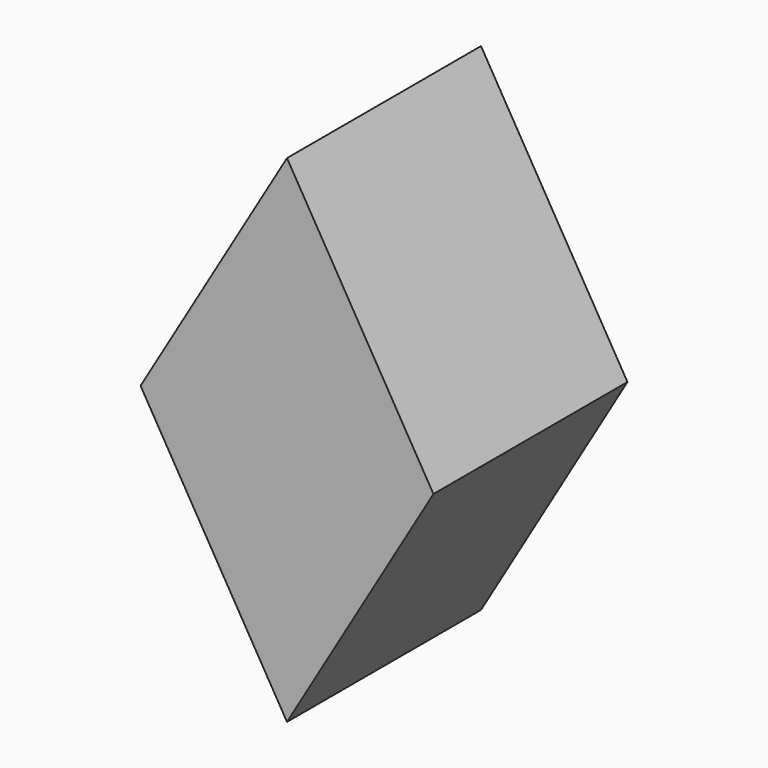
from build123d import *

# Parameters (mm, degrees)
F1_DEPTH = 5.08
F2_DEPTH = 5.08
F3_W     = 124.8834840953
F3_H     = 134.0803280473
F4_DEPTH = 25.4
F5_DEPTH = 1.27
F6_DEPTH = 1.27


with BuildPart() as f1:
    # F0 (on Front) → F1 (new body)
    with BuildSketch(Plane.XZ):
        with BuildLine():
            add(Edge.make_bspline(
                [(11.6870266183, 8.3659507286), (11.9476031572, 8.1243832132), (12.5616108346, 7.4348870399), (13.3502602627, 5.9055860485), (12.8304196463, 2.6136928469), (12.1032885822, -3.9726756525), (11.7671016032, -8.6546761386), (11.3077259518, -11.7183290107), (11.0820746049, -13.2232354954)],
                knots=[0.7644347581, 0.7644347581, 0.7644347581, 0.7644347581, 0.7813803339, 0.8102561854, 0.8494051355, 0.9057589485, 0.9537075591, 1, 1, 1, 1], degree=3))
            Line((11.6870266183, 8.3659507286), (10.7098612934, -7.1798651479))
            Line((10.7098612934, -7.1798651479), (-10.6029463932, 18.994666636))
            Line((-10.6029463932, 18.994666636), (-7.8187826003, 81.9431145827))
            add(Edge.make_bspline(
                [(-10.6029463932, 84.9773436785), (-9.8645957866, 84.411917966), (-8.8470388386, 83.6326772405), (-8.0272766718, 82.3316307612), (-7.8187826003, 81.9431145827)],
                knots=[0, 0, 0, 0, 0.0369842854, 0.0509698458, 0.0509698458, 0.0509698458, 0.0509698458], degree=3))
            add(Edge.make_bspline(
                [(-11.1952358857, -13.2855195552), (-11.1963398761, -12.8902117283), (-11.1997561984, -11.6669231231), (-11.1512885463, -5.3731858959), (-11.3422819981, 1.4393792063), (-12.1461643066, 4.6189611976), (-13.2850553088, 9.1238655935), (-15.2318124981, 13.6348809881), (-16.5294824008, 17.2010053959), (-19.3261405399, 23.6368379744), (-19.7379489625, 26.452730971), (-18.8574929103, 31.5305578619), (-16.6797816611, 35.2468825016), (-14.5909185063, 40.6408371255), (-13.4119591393, 46.1621954132), (-12.5394588361, 53.3896491248), (-12.0546254183, 59.9791874234), (-12.4642284532, 65.9827168693), (-12.3457592591, 73.9226808987), (-11.3164428193, 80.5227149139), (-11.5649092387, 84.7450814286), (-10.8268692537, 84.9232783602), (-10.6029463932, 84.9773436785)],
                knots=[0, 0, 0, 0, 0.0273896804, 0.0847579572, 0.1451631407, 0.1862204743, 0.2349457062, 0.2850522094, 0.3309978555, 0.390291, 0.4296935499, 0.4796750401, 0.527816225, 0.5818528524, 0.6365092781, 0.6980539867, 0.7565756752, 0.8124783975, 0.8767822708, 0.9378286387, 0.9811370802, 1, 1, 1, 1], degree=3))
            Line((-11.1952358857, -13.2855195552), (10.8409429303, -13.2855195552))
            add(Edge.make_bspline(
                [(10.8409429303, -13.2855195552), (10.9216527758, -13.2575733481), (11.0020770139, -13.2366740148), (11.0820746049, -13.2232354954)],
                knots=[0.9988692567, 0.9988692567, 0.9988692567, 0.9988692567, 1, 1, 1, 1], degree=3))
        make_face()
        with BuildLine():
            Line((10.7098612934, -7.1798651479), (11.6870266183, 8.3659507286))
            add(Edge.make_bspline(
                [(-7.8187826003, 81.9431145827), (-7.3326835412, 81.037298185), (-6.246332701, 78.0877738667), (-5.7619281696, 71.7972152113), (-5.7903461619, 61.0472196354), (-5.6098025476, 47.5528084715), (-5.6232359348, 35.7951775922), (-6.6035814728, 31.5572406566), (-6.642373723, 26.8588973108), (-4.7217209893, 21.7576733197), (-2.3324429206, 17.8568763905), (-0.0644904347, 14.9988475653), (2.1698029367, 12.9502128359), (5.7523840475, 11.2499433455), (8.6363164493, 10.2542124123), (10.6765655712, 9.2073747067), (11.4911211984, 8.5475648745), (11.6870266183, 8.3659507286)],
                knots=[0.0509698458, 0.0509698458, 0.0509698458, 0.0509698458, 0.0835768534, 0.1402547932, 0.2115954168, 0.293701069, 0.3674969806, 0.4121442254, 0.4580916534, 0.50894046, 0.5557476766, 0.5967458601, 0.6345135251, 0.6775157549, 0.7161326985, 0.7516948155, 0.7644347581, 0.7644347581, 0.7644347581, 0.7644347581], degree=3))
            Line((-7.8187826003, 81.9431145827), (-10.6029463932, 18.994666636))
            Line((-10.6029463932, 18.994666636), (10.7098612934, -7.1798651479))
        make_face()
        with BuildLine():
            Line((11.0820746049, -15.9663576633), (11.0820746049, -13.2855195552))
            Line((11.0820746049, -13.2855195552), (10.8409429303, -13.2855195552))
            add(Edge.make_bspline(
                [(8.3953980002, -15.9663576633), (9.1364610409, -14.6227373643), (10.004055933, -13.5752960653), (10.8409429303, -13.2855195552)],
                knots=[0.9871444865, 0.9871444865, 0.9871444865, 0.9871444865, 0.9988692567, 0.9988692567, 0.9988692567, 0.9988692567], degree=3))
            Line((8.3953980003, -15.9663576633), (11.0820746049, -15.9663576633))
        make_face()
        with BuildLine():
            add(Edge.make_bspline(
                [(8.3953980002, -15.9663576633), (9.1364610409, -14.6227373643), (10.004055933, -13.5752960653), (10.8409429303, -13.2855195552)],
                knots=[0.9871444865, 0.9871444865, 0.9871444865, 0.9871444865, 0.9988692567, 0.9988692567, 0.9988692567, 0.9988692567], degree=3))
            Line((10.8409429303, -13.2855195552), (-11.1952358857, -13.2855195552))
            Line((-11.1952358857, -13.2855195552), (-11.0308257863, -15.9663576633))
            Line((-11.0308257863, -15.9663576633), (8.3953980003, -15.9663576633))
        make_face()
        with BuildLine():
            Line((11.0820746049, -13.2855195552), (11.0820746049, -13.2232354954))
            add(Edge.make_bspline(
                [(10.8409429303, -13.2855195552), (10.9216527758, -13.2575733481), (11.0020770139, -13.2366740148), (11.0820746049, -13.2232354954)],
                knots=[0.9988692567, 0.9988692567, 0.9988692567, 0.9988692567, 1, 1, 1, 1], degree=3))
            Line((10.8409429303, -13.2855195552), (11.0820746049, -13.2855195552))
        make_face()
    extrude(amount=F1_DEPTH)

    # F2 (add): a face of the model
    f2_faces = [f1.faces().sort_by_distance(p)[0] for p in [
        (-5.0809274024, 0, 19.1888153538),
    ]]
    extrude(f2_faces, amount=F2_DEPTH)

    # F3 (on face) → F4 (cut)
    with BuildSketch(Plane.XZ.offset(5.08)):
        with Locations((7.2313416749, 30.1963053644)):
            Rectangle(F3_W, F3_H)
        with BuildLine():
            Line((-11.0308257863, -15.9663576633), (-11.1952358857, -13.2855195552))
            add(Edge.make_bspline(
                [(-11.1952358857, -13.2855195552), (-11.1963398761, -12.8902117283), (-11.1997561984, -11.6669231231), (-11.1512885463, -5.3731858959), (-11.3422819981, 1.4393792063), (-12.1461643066, 4.6189611976), (-13.2850553088, 9.1238655935), (-15.2318124981, 13.6348809881), (-16.5294824008, 17.2010053959), (-19.3261405399, 23.6368379744), (-19.7379489625, 26.452730971), (-18.8574929103, 31.5305578619), (-16.6797816611, 35.2468825016), (-14.5909185063, 40.6408371255), (-13.4119591393, 46.1621954132), (-12.5394588361, 53.3896491248), (-12.0546254183, 59.9791874234), (-12.4642284532, 65.9827168693), (-12.3457592591, 73.9226808987), (-11.3164428193, 80.5227149139), (-11.5649092387, 84.7450814286), (-10.8268692537, 84.9232783602), (-10.6029463932, 84.9773436785)],
                knots=[0, 0, 0, 0, 0.0273896804, 0.0847579572, 0.1451631407, 0.1862204743, 0.2349457062, 0.2850522094, 0.3309978555, 0.390291, 0.4296935499, 0.4796750401, 0.527816225, 0.5818528524, 0.6365092781, 0.6980539867, 0.7565756752, 0.8124783975, 0.8767822708, 0.9378286387, 0.9811370802, 1, 1, 1, 1], degree=3))
            add(Edge.make_bspline(
                [(11.0820746049, -13.2232354954), (11.3077259518, -11.7183290107), (11.7671016032, -8.6546761386), (12.1032885822, -3.9726756525), (12.8304196463, 2.6136928469), (13.3502602627, 5.9055860485), (12.443365527, 7.6641811468), (11.0743289472, 9.0032850711), (8.6363164493, 10.2542124123), (5.7523840475, 11.2499433455), (2.1698029367, 12.9502128359), (-0.0644904347, 14.9988475653), (-2.3324429206, 17.8568763905), (-4.7217209893, 21.7576733197), (-6.642373723, 26.8588973108), (-6.6035814728, 31.5572406566), (-5.6232359348, 35.7951775922), (-5.6098025476, 47.5528084715), (-5.7903461619, 61.0472196354), (-5.7619281696, 71.7972152113), (-6.2885094778, 78.6354885776), (-8.1960757736, 83.1341725308), (-9.8645957866, 84.411917966), (-10.6029463932, 84.9773436785)],
                knots=[0.7644347581, 0.7644347581, 0.7644347581, 0.7644347581, 0.810727199, 0.8586758096, 0.9150296226, 0.9541785727, 0.9830544242, 1.0127399426, 1.0483020596, 1.0869190032, 1.1299212329, 1.167688898, 1.2086870814, 1.2554942981, 1.3063431047, 1.3522905327, 1.3969377775, 1.470733689, 1.5528393413, 1.6241799649, 1.6808579047, 1.7274504726, 1.7644347581, 1.7644347581, 1.7644347581, 1.7644347581], degree=3))
            Line((11.0820746049, -13.2232354954), (11.0820746049, -15.9663576633))
            Line((11.0820746049, -15.9663576633), (-11.0308257863, -15.9663576633))
        make_face(mode=Mode.SUBTRACT)
        with BuildLine():
            add(Edge.make_bspline(
                [(-11.1952358857, -13.2855195552), (-11.1963398761, -12.8902117283), (-11.1997561984, -11.6669231231), (-11.1512885463, -5.3731858959), (-11.3422819981, 1.4393792063), (-12.1461643066, 4.6189611976), (-13.2850553088, 9.1238655935), (-15.2318124981, 13.6348809881), (-16.5294824008, 17.2010053959), (-19.3261405399, 23.6368379744), (-19.7379489625, 26.452730971), (-18.8574929103, 31.5305578619), (-16.6797816611, 35.2468825016), (-14.5909185063, 40.6408371255), (-13.4119591393, 46.1621954132), (-12.5394588361, 53.3896491248), (-12.0546254183, 59.9791874234), (-12.4642284532, 65.9827168693), (-12.3457592591, 73.9226808987), (-11.3164428193, 80.5227149139), (-11.5649092387, 84.7450814286), (-10.8268692537, 84.9232783602), (-10.6029463932, 84.9773436785)],
                knots=[0, 0, 0, 0, 0.0273896804, 0.0847579572, 0.1451631407, 0.1862204743, 0.2349457062, 0.2850522094, 0.3309978555, 0.390291, 0.4296935499, 0.4796750401, 0.527816225, 0.5818528524, 0.6365092781, 0.6980539867, 0.7565756752, 0.8124783975, 0.8767822708, 0.9378286387, 0.9811370802, 1, 1, 1, 1], degree=3))
            Line((-11.1952358857, -13.2855195552), (-11.0308257863, -15.9663576633))
            Line((-11.0308257863, -15.9663576633), (11.0820746049, -15.9663576633))
            Line((11.0820746049, -15.9663576633), (11.0820746049, -13.2232354954))
            add(Edge.make_bspline(
                [(11.0820746049, -13.2232354954), (11.3077259518, -11.7183290107), (11.7671016032, -8.6546761386), (12.1032885822, -3.9726756525), (12.8304196463, 2.6136928469), (13.3502602627, 5.9055860485), (12.443365527, 7.6641811468), (11.0743289472, 9.0032850711), (8.6363164493, 10.2542124123), (5.7523840475, 11.2499433455), (2.1698029367, 12.9502128359), (-0.0644904347, 14.9988475653), (-2.3324429206, 17.8568763905), (-4.7217209893, 21.7576733197), (-6.642373723, 26.8588973108), (-6.6035814728, 31.5572406566), (-5.6232359348, 35.7951775922), (-5.6098025476, 47.5528084715), (-5.7903461619, 61.0472196354), (-5.7619281696, 71.7972152113), (-6.2885094778, 78.6354885776), (-8.1960757736, 83.1341725308), (-9.8645957866, 84.411917966), (-10.6029463932, 84.9773436785)],
                knots=[0.7644347581, 0.7644347581, 0.7644347581, 0.7644347581, 0.810727199, 0.8586758096, 0.9150296226, 0.9541785727, 0.9830544242, 1.0127399426, 1.0483020596, 1.0869190032, 1.1299212329, 1.167688898, 1.2086870814, 1.2554942981, 1.3063431047, 1.3522905327, 1.3969377775, 1.470733689, 1.5528393413, 1.6241799649, 1.6808579047, 1.7274504726, 1.7644347581, 1.7644347581, 1.7644347581, 1.7644347581], degree=3))
        make_face()
        Polygon((-7.6687936671, 0), (0, 12.9914516583), (7.6687936671, 0), (0, -13.0022913218), align=None, mode=Mode.SUBTRACT)
    extrude(amount=-F4_DEPTH, mode=Mode.SUBTRACT)

    # F5 (add): a face of the model
    f5_faces = [f1.faces().sort_by_distance(p)[0] for p in [
        (0, -5.08, -0.0036132211),
    ]]
    extrude(f5_faces, amount=F5_DEPTH)

    # F6 (add): a face of the model
    f6_faces = [f1.faces().sort_by_distance(p)[0] for p in [
        (0, 5.08, -0.0036132211),
    ]]
    extrude(f6_faces, amount=F6_DEPTH)


solid = f1.part
